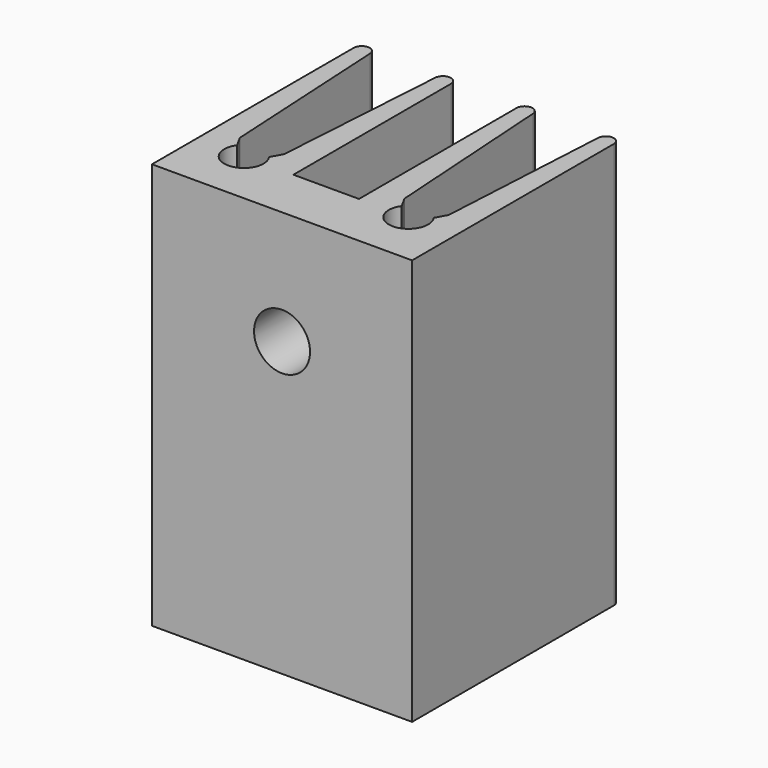
from build123d import *

# Parameters (mm, degrees)
PAD_DEPTH       = 25.4
SKETCH002_R     = 1.75
POCKET001_DEPTH = 16.261


with BuildPart() as part:
    # Sketch → Pad (new body)
    with BuildSketch(Plane.XY):
        with BuildLine():
            Line((-8.13, 0), (0, 0))
            Line((0, 0), (0, 3.45))
            Line((-2.05, 3.45), (0, 3.45))
            Line((-2.05, 15.76), (-2.05, 3.45))
            ThreePointArc((-2.05, 15.76), (-2.533756, 16.259736), (-3.048945, 15.79247))
            Line((-3.048945, 15.79247), (-3.76, 4.86617))
            Line((-3.76, 4.86617), (-4.145, 4.16617))
            ThreePointArc((-6.145, 4.16617), (-5.145, 2.22), (-4.145, 4.16617))
            Line((-6.53, 4.86617), (-6.145, 4.16617))
            Line((-7.130755, 15.787462), (-6.53, 4.86617))
            ThreePointArc((-7.130755, 15.787462), (-7.643736, 16.259811), (-8.13, 15.76))
            Line((-8.13, 0), (-8.13, 15.76))
        make_face()
    pad = extrude(amount=PAD_DEPTH)

    # Mirrored: Pad across Sketch V_Axis
    add(pad.mirror(Plane(origin=(0, 0, 0), x_dir=(0, 0, 1), z_dir=(1, 0, 0))))

    # Sketch002 → Pocket001 (cut, through all)
    with BuildSketch(Plane.XZ):
        with Locations((0, 18.29)):
            Circle(SKETCH002_R)
    extrude(amount=-POCKET001_DEPTH, mode=Mode.SUBTRACT)


solid = part.part
